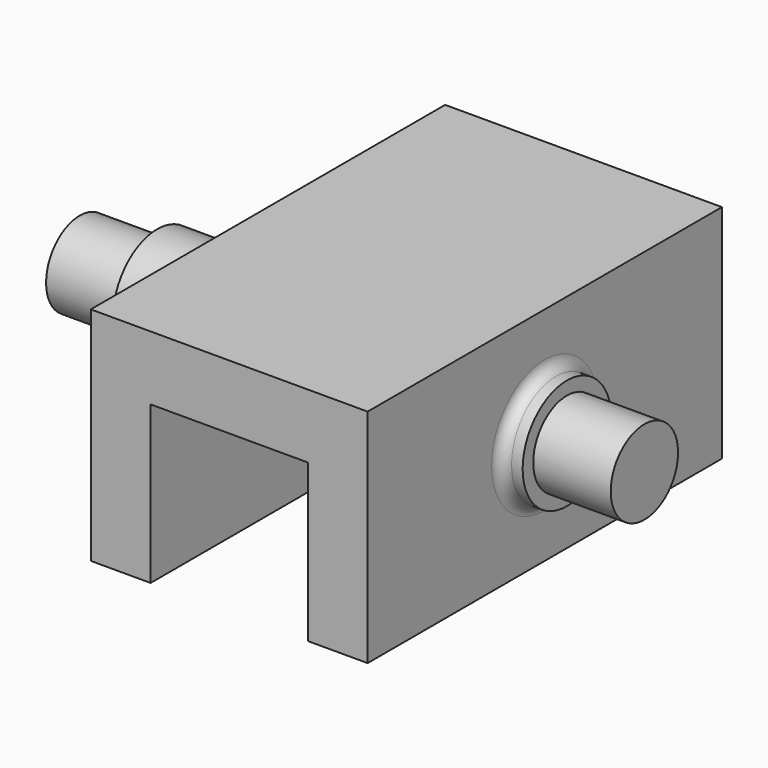
from build123d import *

# Parameters (mm, degrees)
SKETCH_W          = 25
SKETCH_H          = 40
PAD_DEPTH         = 20
SKETCH001_R       = 3.8
PAD001_DEPTH      = 17
PAD001_DEPTH_BACK = 34
SKETCH002_R       = 5
PAD002_DEPTH      = 10
PAD002_DEPTH_BACK = 27
SKETCH003_W       = 14.2
SKETCH003_H       = 14.2
POCKET_DEPTH      = 50
FILLET003_R       = 3
FILLET004_R       = 1


with BuildPart() as part:
    # Sketch → Pad (new body)
    with BuildSketch(Plane.XY):
        Rectangle(SKETCH_W, SKETCH_H)
    extrude(amount=PAD_DEPTH)

    # Sketch001 → Pad001 (new body, two sides)
    with BuildSketch(Plane(origin=(-12.5, 0, 0), x_dir=(0, -1, 0), z_dir=(-1, 0, 0))) as pad001_sk:
        with Locations((0, 10)):
            Circle(SKETCH001_R)
    extrude(amount=PAD001_DEPTH)
    extrude(pad001_sk.sketch, amount=-PAD001_DEPTH_BACK)

    # Sketch002 → Pad002 (new body, two sides)
    with BuildSketch(Plane(origin=(-12.5, 0, 0), x_dir=(0, -1, 0), z_dir=(-1, 0, 0))) as pad002_sk:
        with Locations((0, 10)):
            Circle(SKETCH002_R)
    extrude(amount=PAD002_DEPTH)
    extrude(pad002_sk.sketch, amount=-PAD002_DEPTH_BACK)

    # Sketch003 → Pocket (cut)
    with BuildSketch(Plane.XZ.offset(20)):
        with Locations((0, 7.1)):
            Rectangle(SKETCH003_W, SKETCH003_H)
    extrude(amount=-POCKET_DEPTH, mode=Mode.SUBTRACT)

    # Fillet003
    fillet003_edges = [part.edges().sort_by_distance(p)[0] for p in [
        (-12.5, 5, 10),
    ]]
    fillet(fillet003_edges, radius=FILLET003_R)

    # Fillet004
    fillet004_edges = [part.edges().sort_by_distance(p)[0] for p in [
        (12.5, 5, 10),
    ]]
    fillet(fillet004_edges, radius=FILLET004_R)


solid = part.part
